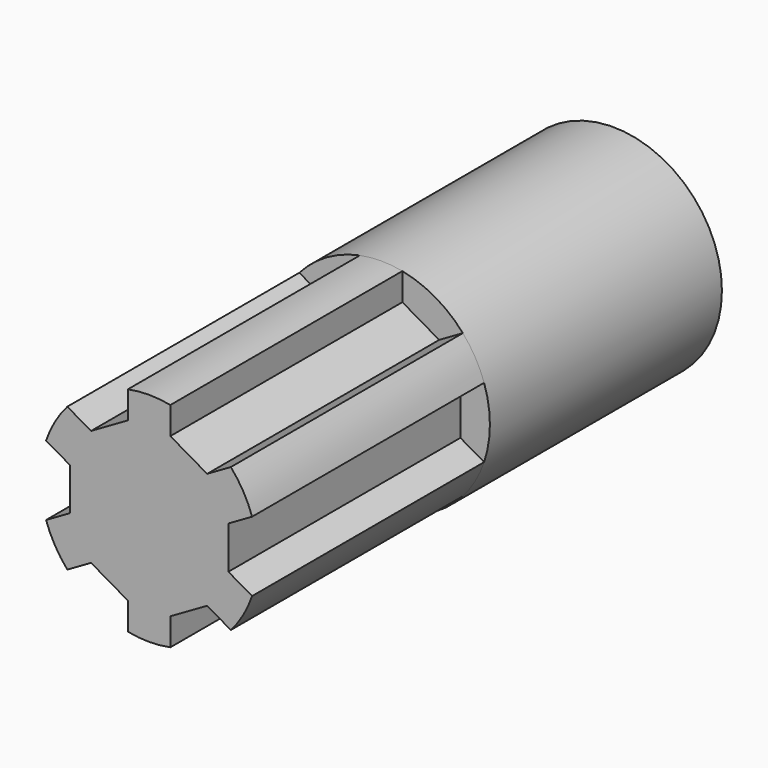
from build123d import *

# Parameters (mm, degrees)
F0_R     = 19.05
F1_DEPTH = 50.8
F3_DEPTH = 50.8


with BuildPart() as f1:
    # F0 (on Front) → F1 (new body)
    with BuildSketch(Plane.XZ):
        Circle(F0_R)
    extrude(amount=F1_DEPTH)

    # F2 (on face) → F3 (join)
    with BuildSketch(Plane.XZ.offset(50.8)):
        with BuildLine():
            Line((-18.040595, 6.118777), (-13.888012, 3.721282))
            Line((-13.888012, 3.721282), (-10.16673, 10.16673))
            Line((-10.16673, 10.16673), (-14.319314, 12.564225))
            ThreePointArc((-14.319314, 12.564225), (-16.497784, 9.525), (-18.040595, 6.118777))
        make_face()
        with BuildLine():
            Line((-3.721282, 13.888012), (3.721282, 13.888012))
            Line((3.721282, 13.888012), (3.721282, 18.683002))
            ThreePointArc((3.721282, 18.683002), (0, 19.05), (-3.721282, 18.683002))
            Line((-3.721282, 18.683002), (-3.721282, 13.888012))
        make_face()
        with BuildLine():
            Line((10.16673, 10.16673), (13.888012, 3.721282))
            Line((13.888012, 3.721282), (18.040595, 6.118777))
            ThreePointArc((18.040595, 6.118777), (16.497784, 9.525), (14.319314, 12.564225))
            Line((14.319314, 12.564225), (10.16673, 10.16673))
        make_face()
        with BuildLine():
            Line((13.888012, -3.721282), (10.16673, -10.16673))
            Line((10.16673, -10.16673), (14.319314, -12.564225))
            ThreePointArc((14.319314, -12.564225), (16.497784, -9.525), (18.040595, -6.118777))
            Line((18.040595, -6.118777), (13.888012, -3.721282))
        make_face()
        with BuildLine():
            Line((3.721282, -18.683002), (3.721282, -13.888012))
            Line((3.721282, -13.888012), (-3.721282, -13.888012))
            Line((-3.721282, -13.888012), (-3.721282, -18.683002))
            ThreePointArc((-3.721282, -18.683002), (0, -19.05), (3.721282, -18.683002))
        make_face()
        with BuildLine():
            Line((-14.319314, -12.564225), (-10.16673, -10.16673))
            Line((-10.16673, -10.16673), (-13.888012, -3.721282))
            Line((-13.888012, -3.721282), (-18.040595, -6.118777))
            ThreePointArc((-18.040595, -6.118777), (-16.497784, -9.525), (-14.319314, -12.564225))
        make_face()
        Polygon((3.721282, -13.888012), (10.16673, -10.16673), (13.888012, -3.721282), (13.888012, 3.721282), (10.16673, 10.16673), (3.721282, 13.888012), (-3.721282, 13.888012), (-10.16673, 10.16673), (-13.888012, 3.721282), (-13.888012, -3.721282), (-10.16673, -10.16673), (-3.721282, -13.888012), align=None)
    extrude(amount=F3_DEPTH)


solid = f1.part
